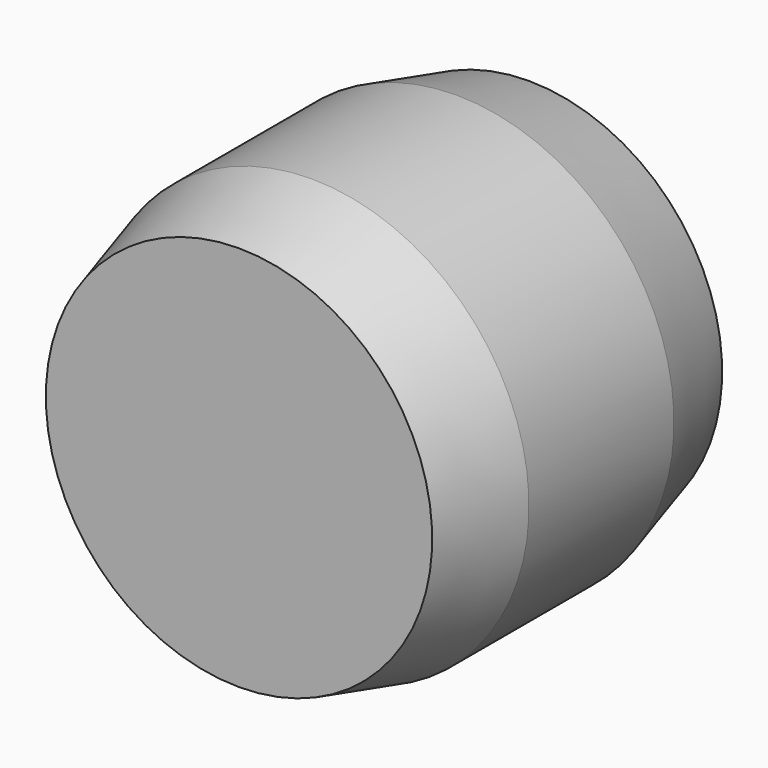
from build123d import *


with BuildPart() as part:
    # Sketch → Revolution (revolve)
    with BuildSketch(Plane.YZ):
        Polygon((0, 0), (0, 5.330127), (2.5, 6), (7.5, 6), (10, 5.330127), (10, 0), align=None)
    revolve(axis=Axis((0, 0, 0), (0, 1, 0)))


solid = part.part
